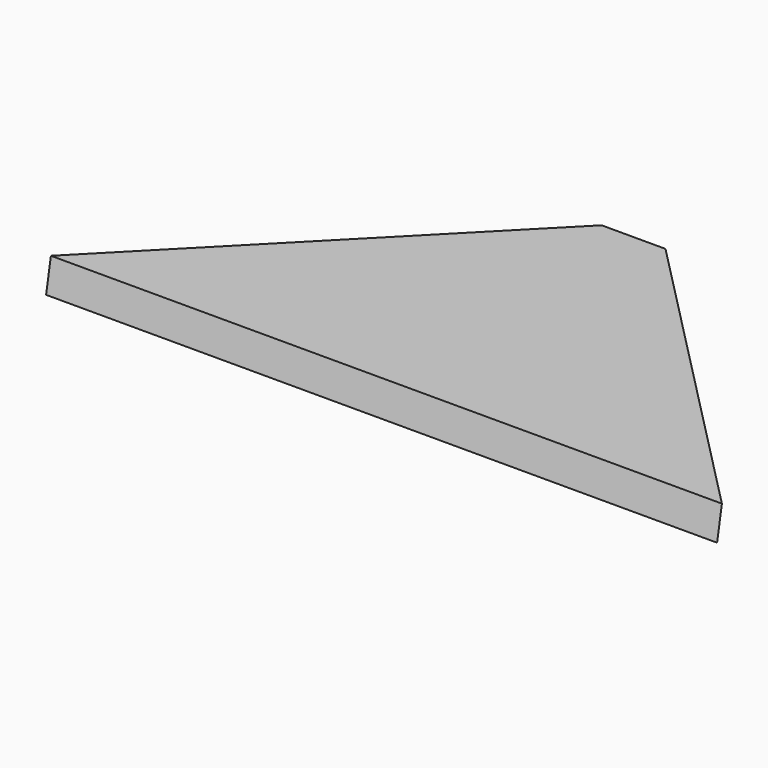
from build123d import *

# Parameters (mm, degrees)
F0_W     = 105
F0_H     = 52.5
F1_DEPTH = 15
F3_DEPTH = 105.001
F6_DEPTH = 15.001
F8_DEPTH = 15.001
F9_ANGLE = 10.691248


with BuildPart() as f1:
    # F0 (on Top) → F1 (new body)
    with BuildSketch(Plane.XY):
        Rectangle(F0_W, F0_H)
    extrude(amount=F1_DEPTH)

    # F2 (on face) → F3 (cut, through all)
    with BuildSketch(Plane.YZ.offset(52.5)):
        Polygon((-26.25, 15), (-26.25, 5.088328), (26.25, 15), align=None)
        Polygon((26.25, 9.911672), (-26.25, 0), (26.25, 0), align=None)
    extrude(amount=-F3_DEPTH, mode=Mode.SUBTRACT)

    # F5 (on Top) → F6 (cut, through all)
    with BuildSketch(Plane.XY):
        Polygon((-52.5, 26.25), (-52.5, -26.25), (0, 26.25), align=None)
        Polygon((0, 26.25), (52.5, -26.25), (52.5, 26.25), align=None)
    extrude(amount=F6_DEPTH, mode=Mode.SUBTRACT)

    # F7 (on Top) → F8 (cut, through all)
    with BuildSketch(Plane.XY):
        Polygon((5, 21.25), (0, 26.25), (-5, 21.25), align=None)
    extrude(amount=F8_DEPTH, mode=Mode.SUBTRACT)


with BuildPart() as f1_1:
    # F9: moved
    add(f1.part.rotate(Axis((0, -26.25, 0), (-1, 0, 0)), F9_ANGLE))


solid = f1_1.part
